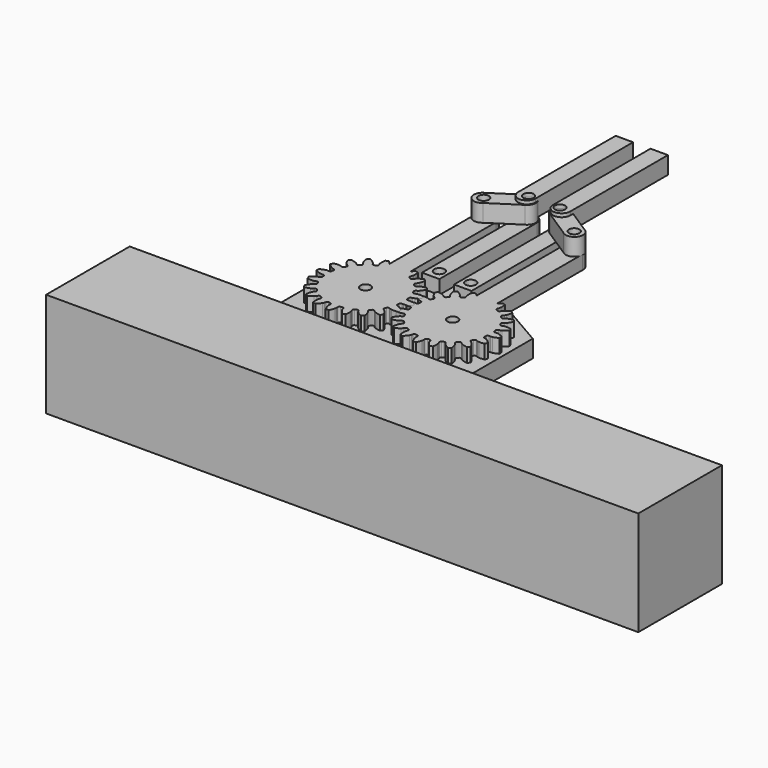
from build123d import *

# Parameters (mm, degrees)
BOX_W             = 170
BOX_H             = 30
BOX_DEPTH         = 30
CYLINDER002_R     = 1.5
CYLINDER002_DEPTH = 15
CYLINDER_R        = 1.5
CYLINDER_DEPTH    = 15
EXTRUDE002_DEPTH  = 5
CYLINDER004_R     = 1.5
CYLINDER004_DEPTH = 20
CYLINDER003_R     = 1.5
CYLINDER003_DEPTH = 15
EXTRUDE005_DEPTH  = 5
EXTRUDE007_DEPTH  = 5
EXTRUDE006_DEPTH  = 5
EXTRUDE004_DEPTH  = 4
EXTRUDE003_DEPTH  = 4
CYLINDER001_R     = 1.5
CYLINDER001_DEPTH = 15
EXTRUDE_DEPTH     = 4


with BuildPart() as cube:
    # Box → Box (new body)
    with BuildSketch(Plane(origin=(-41, -69, 0), x_dir=(1, 0, 0), z_dir=(0, 0, 1))):
        with Locations((85, 15)):
            Rectangle(BOX_W, BOX_H)
    extrude(amount=BOX_DEPTH)


with BuildPart() as cylinder002:
    # Cylinder002 → Cylinder002 (new body)
    with BuildSketch(Plane(origin=(4.5, 26.5, -2), x_dir=(1, 0, 0), z_dir=(0, 0, 1))):
        Circle(CYLINDER002_R)
    extrude(amount=CYLINDER002_DEPTH)


with BuildPart() as part_mirroring007:
    # Part__Mirroring007: instance of Cylinder002
    add(cylinder002.part.mirror(Plane(origin=(0, 0, 0), x_dir=(0, -1, 0), z_dir=(1, 0, 0))))


with BuildPart() as hueco_tornillo:
    # Cylinder → Cylinder (new body)
    with BuildSketch(Plane(origin=(12.5, 10, -1), x_dir=(1, 0, 0), z_dir=(0, 0, 1))):
        Circle(CYLINDER_R)
    extrude(amount=CYLINDER_DEPTH)


with BuildPart() as part_mirroring005:
    # Part__Mirroring005: instance of Hueco tornillo
    add(hueco_tornillo.part.mirror(Plane(origin=(0, 0, 0), x_dir=(0, -1, 0), z_dir=(1, 0, 0))))


with BuildPart() as obj1:
    # Sketch001 → Extrude002 (new body)
    with BuildSketch(Plane.XY):
        Polygon((-27.5, -20), (-27.5, 20), (-10, 30.10363), (10, 30.10363), (27.5, 20), (27.5, -20), align=None)
    extrude(amount=EXTRUDE002_DEPTH)

    # Cut001: cut Hueco tornillo
    add(hueco_tornillo.part, mode=Mode.SUBTRACT)

    # Cut002: cut Part__Mirroring005
    add(part_mirroring005.part, mode=Mode.SUBTRACT)

    # Cut005: cut Cylinder002
    add(cylinder002.part, mode=Mode.SUBTRACT)

    # Cut007: cut Part__Mirroring007
    add(part_mirroring007.part, mode=Mode.SUBTRACT)


with BuildPart() as tornillo001:
    # Cylinder004 → Cylinder004 (new body)
    with BuildSketch(Plane(origin=(4.5, 58.5, 2), x_dir=(1, 0, 0), z_dir=(0, 0, 1))):
        Circle(CYLINDER004_R)
    extrude(amount=CYLINDER004_DEPTH)


with BuildPart() as tornillo:
    # Cylinder003 → Cylinder003 (new body)
    with BuildSketch(Plane(origin=(13, 53, 4), x_dir=(1, 0, 0), z_dir=(0, 0, 1))):
        Circle(CYLINDER003_R)
    extrude(amount=CYLINDER003_DEPTH)


with BuildPart() as obj2:
    # Sketch003 → Extrude005 (new body)
    with BuildSketch(Plane.XY.offset(12)):
        with BuildLine():
            Line((6.265841, 59.984875), (14.149073, 54.864849))
            ThreePointArc((11.315443, 50.797342), (15.05131, 51.215528), (14.149073, 54.864849))
            Line((3.432211, 55.917368), (11.315443, 50.797342))
            ThreePointArc((6.265841, 59.984875), (2.529975, 59.566689), (3.432211, 55.917368))
        make_face()
    extrude(amount=EXTRUDE005_DEPTH)


with BuildPart() as obj2_1:
    # Extrude005 placement: moved
    add(obj2.part.moved(Location((0.18891, 0.183964, -3))))


with BuildPart() as obj3:
    # Cut010 base: copy of obj2
    add(obj2_1.part)

    # Cut010: cut Tornillo
    add(tornillo.part, mode=Mode.SUBTRACT)

    # Cut013: cut Tornillo001
    add(tornillo001.part, mode=Mode.SUBTRACT)


with BuildPart() as obj4:
    # Sketch005 → Extrude007 (new body)
    with BuildSketch(Plane.XY.offset(12)):
        with BuildLine():
            Line((6.265841, 59.984875), (14.149073, 54.864849))
            ThreePointArc((11.315443, 50.797342), (15.05131, 51.215528), (14.149073, 54.864849))
            Line((3.432211, 55.917368), (11.315443, 50.797342))
            ThreePointArc((6.265841, 59.984875), (2.529975, 59.566689), (3.432211, 55.917368))
        make_face()
    extrude(amount=EXTRUDE007_DEPTH)


with BuildPart() as obj4_1:
    # Extrude007 placement: moved
    add(obj4.part.moved(Location((0.18891, 0.183964, -3))))


with BuildPart() as obj5:
    # Sketch004 → Extrude006 (new body)
    with BuildSketch(Plane.XY):
        with BuildLine():
            Line((-2.5, 17.5), (2.5, 17.5))
            Line((2.5, 17.5), (2.5, -17.5))
            ThreePointArc((-2.5, -17.5), (0, -20), (2.5, -17.5))
            Line((-2.5, -17.5), (-2.5, 17.5))
        make_face()
    extrude(amount=EXTRUDE006_DEPTH)


with BuildPart() as obj5_1:
    # Extrude006 placement: moved
    add(obj5.part.moved(Location((5, 76, 10))))

    # Cut: cut obj4
    add(obj4_1.part, mode=Mode.SUBTRACT)


with BuildPart() as obj6:
    # Cut014 base: copy of obj5
    add(obj5_1.part)

    # Cut014: cut Tornillo001
    add(tornillo001.part, mode=Mode.SUBTRACT)


with BuildPart() as obj7:
    # Sketch002 → Extrude004 (new body)
    with BuildSketch(Plane.XY):
        with BuildLine():
            Line((50.607732, 0), (50.607732, 35))
            ThreePointArc((55.607732, 35), (53.107732, 37.50001), (50.607732, 35))
            Line((55.607732, 0), (55.607732, 35))
            Line((50.607732, 0), (55.607732, 0))
        make_face()
    extrude(amount=EXTRUDE004_DEPTH)


with BuildPart() as obj7_1:
    # Extrude004 placement: moved
    add(obj7.part.moved(Location((-48.5, 23.5, 5))))


with BuildPart() as obj8:
    # Cut006 base: copy of obj7
    add(obj7_1.part)

    # Cut006: cut Cylinder002
    add(cylinder002.part, mode=Mode.SUBTRACT)

    # Cut015: cut Tornillo001
    add(tornillo001.part, mode=Mode.SUBTRACT)


with BuildPart() as part_mirroring009:
    # Part__Mirroring009: instance of Tornillo001
    add(tornillo001.part.mirror(Plane(origin=(0, 0, 0), x_dir=(0, -1, 0), z_dir=(1, 0, 0))))


with BuildPart() as obj9:
    # Part__Mirroring002: instance of obj7
    add(obj7_1.part.mirror(Plane(origin=(0, 0, 0), x_dir=(0, -1, 0), z_dir=(1, 0, 0))))

    # Cut008: cut Part__Mirroring007
    add(part_mirroring007.part, mode=Mode.SUBTRACT)

    # Cut016: cut Part__Mirroring009
    add(part_mirroring009.part, mode=Mode.SUBTRACT)


with BuildPart() as part_mirroring008:
    # Part__Mirroring008: instance of Tornillo
    add(tornillo.part.mirror(Plane(origin=(0, 0, 0), x_dir=(0, -1, 0), z_dir=(1, 0, 0))))


with BuildPart() as obj10:
    # Part__Mirroring003: instance of obj2
    add(obj2_1.part.mirror(Plane(origin=(0, 0, 0), x_dir=(0, -1, 0), z_dir=(1, 0, 0))))

    # Cut012: cut Part__Mirroring008
    add(part_mirroring008.part, mode=Mode.SUBTRACT)

    # Cut017: cut Part__Mirroring009
    add(part_mirroring009.part, mode=Mode.SUBTRACT)


with BuildPart() as obj11:
    # Part__Mirroring004: instance of obj5
    add(obj5_1.part.mirror(Plane(origin=(0, 0, 0), x_dir=(0, -1, 0), z_dir=(1, 0, 0))))

    # Cut018: cut Part__Mirroring009
    add(part_mirroring009.part, mode=Mode.SUBTRACT)


with BuildPart() as obj12:
    # Sketch → Extrude003 (new body)
    with BuildSketch(Plane.XY):
        with BuildLine():
            Line((71.932891, 0), (71.932891, 40))
            ThreePointArc((77.932891, 40), (74.932891, 43), (71.932891, 40))
            Line((77.932891, 0), (77.932891, 40))
            Line((71.932891, 0), (77.932891, 0))
        make_face()
    extrude(amount=EXTRUDE003_DEPTH)


with BuildPart() as obj12_1:
    # Extrude003 placement: moved
    add(obj12.part.moved(Location((-62.5, 13, 5))))


with BuildPart() as fal_der_tornillo:
    # Cut009 base: copy of obj12
    add(obj12_1.part)

    # Cut009: cut Tornillo
    add(tornillo.part, mode=Mode.SUBTRACT)


with BuildPart() as cylinder:
    # Cylinder001 → Cylinder001 (new body)
    with BuildSketch(Plane(origin=(12.5, 10, -1), x_dir=(1, 0, 0), z_dir=(0, 0, 1))):
        Circle(CYLINDER001_R)
    extrude(amount=CYLINDER001_DEPTH)


with BuildPart() as extrude_body:
    # InvoluteGear → Extrude (new body)
    with BuildSketch(Plane.XY):
        with BuildLine():
            Line((11.346894, -1.063398), (11.717318, -1.097171))
            add(Edge.make_bspline(
                [(11.717318, -1.097171), (11.776361, -1.099058), (11.954079, -1.097525), (12.250595, -1.033325)],
                knots=[0, 0, 0, 0, 1, 1, 1, 1], degree=3))
            add(Edge.make_bspline(
                [(12.250595, -1.033325), (12.605293, -0.955347), (13.115728, -0.788419), (13.744527, -0.433709)],
                knots=[0, 0, 0, 0, 1, 1, 1, 1], degree=3))
            ThreePointArc((13.744527, -0.433709), (13.751369, 0), (13.744527, 0.433709))
            add(Edge.make_bspline(
                [(13.744527, 0.433709), (13.115728, 0.788419), (12.605293, 0.955347), (12.250595, 1.033325)],
                knots=[0, 0, 0, 0, 1, 1, 1, 1], degree=3))
            add(Edge.make_bspline(
                [(12.250595, 1.033325), (11.954079, 1.097525), (11.776361, 1.099058), (11.717318, 1.097171)],
                knots=[0, 0, 0, 0, 1, 1, 1, 1], degree=3))
            Line((11.717318, 1.097171), (11.346894, 1.063398))
            ThreePointArc((11.346894, 1.063398), (11.011703, 1.162977), (10.838693, 1.466846))
            ThreePointArc((10.838693, 1.466846), (10.802841, 1.711002), (10.76149, 1.954287))
            ThreePointArc((10.76149, 1.954287), (10.832131, 2.296747), (11.120145, 2.495031))
            Line((11.120145, 2.495031), (11.482876, 2.577378))
            add(Edge.make_bspline(
                [(11.482876, 2.577378), (11.539612, 2.593829), (11.708158, 2.650205), (11.970323, 2.802892)],
                knots=[0, 0, 0, 0, 1, 1, 1, 1], degree=3))
            add(Edge.make_bspline(
                [(11.970323, 2.802892), (12.283565, 2.986661), (12.717433, 3.303152), (13.205845, 3.83481)],
                knots=[0, 0, 0, 0, 1, 1, 1, 1], degree=3))
            ThreePointArc((13.205845, 3.83481), (13.078329, 4.249407), (12.937798, 4.659774))
            add(Edge.make_bspline(
                [(12.937798, 4.659774), (12.230164, 4.802814), (11.693128, 4.803839), (11.331693, 4.768393)],
                knots=[0, 0, 0, 0, 1, 1, 1, 1], degree=3))
            add(Edge.make_bspline(
                [(11.331693, 4.768393), (11.029851, 4.737822), (10.860357, 4.684362), (10.804787, 4.664322)],
                knots=[0, 0, 0, 0, 1, 1, 1, 1], degree=3))
            Line((10.804787, 4.664322), (10.462929, 4.517735))
            ThreePointArc((10.462929, 4.517735), (10.113372, 4.50886), (9.854929, 4.744394))
            ThreePointArc((9.854929, 4.744394), (9.745384, 4.965521), (9.630878, 5.18412))
            ThreePointArc((9.630878, 5.18412), (9.592235, 5.531648), (9.80488, 5.809229))
            Line((9.80488, 5.809229), (10.124411, 5.999636))
            add(Edge.make_bspline(
                [(10.124411, 5.999636), (10.173286, 6.032814), (10.316162, 6.138515), (10.518313, 6.364742)],
                knots=[0, 0, 0, 0, 1, 1, 1, 1], degree=3))
            add(Edge.make_bspline(
                [(10.518313, 6.364742), (10.759435, 6.636313), (11.074268, 7.071387), (11.374484, 7.727952)],
                knots=[0, 0, 0, 0, 1, 1, 1, 1], degree=3))
            ThreePointArc((11.374484, 7.727952), (11.125091, 8.082852), (10.864628, 8.429708))
            add(Edge.make_bspline(
                [(10.864628, 8.429708), (10.147426, 8.347076), (9.636357, 8.182097), (9.303566, 8.036697)],
                knots=[0, 0, 0, 0, 1, 1, 1, 1], degree=3))
            add(Edge.make_bspline(
                [(9.303566, 8.036697), (9.025944, 7.914348), (8.881266, 7.811128), (8.834608, 7.774897)],
                knots=[0, 0, 0, 0, 1, 1, 1, 1], degree=3))
            Line((8.834608, 7.774897), (8.55478, 7.529844))
            ThreePointArc((8.55478, 7.529844), (8.225074, 7.413384), (7.906496, 7.557528))
            ThreePointArc((7.906496, 7.557528), (7.73398, 7.73398), (7.557528, 7.906496))
            ThreePointArc((7.557528, 7.906496), (7.413384, 8.225074), (7.529844, 8.55478))
            Line((7.529844, 8.55478), (7.774897, 8.834608))
            add(Edge.make_bspline(
                [(7.774897, 8.834608), (7.811128, 8.881266), (7.914348, 9.025944), (8.036697, 9.303566)],
                knots=[0, 0, 0, 0, 1, 1, 1, 1], degree=3))
            add(Edge.make_bspline(
                [(8.036697, 9.303566), (8.182097, 9.636357), (8.347076, 10.147426), (8.429708, 10.864628)],
                knots=[0, 0, 0, 0, 1, 1, 1, 1], degree=3))
            ThreePointArc((8.429708, 10.864628), (8.082852, 11.125091), (7.727952, 11.374484))
            add(Edge.make_bspline(
                [(7.727952, 11.374484), (7.071387, 11.074268), (6.636313, 10.759435), (6.364742, 10.518313)],
                knots=[0, 0, 0, 0, 1, 1, 1, 1], degree=3))
            add(Edge.make_bspline(
                [(6.364742, 10.518313), (6.138515, 10.316162), (6.032814, 10.173286), (5.999636, 10.124411)],
                knots=[0, 0, 0, 0, 1, 1, 1, 1], degree=3))
            Line((5.999636, 10.124411), (5.809229, 9.80488))
            ThreePointArc((5.809229, 9.80488), (5.531648, 9.592235), (5.18412, 9.630878))
            ThreePointArc((5.18412, 9.630878), (4.965521, 9.745384), (4.744394, 9.854929))
            ThreePointArc((4.744394, 9.854929), (4.50886, 10.113372), (4.517735, 10.462929))
            Line((4.517735, 10.462929), (4.664322, 10.804787))
            add(Edge.make_bspline(
                [(4.664322, 10.804787), (4.684362, 10.860357), (4.737822, 11.029851), (4.768393, 11.331693)],
                knots=[0, 0, 0, 0, 1, 1, 1, 1], degree=3))
            add(Edge.make_bspline(
                [(4.768393, 11.331693), (4.803839, 11.693128), (4.802814, 12.230164), (4.659774, 12.937798)],
                knots=[0, 0, 0, 0, 1, 1, 1, 1], degree=3))
            ThreePointArc((4.659774, 12.937798), (4.249407, 13.078329), (3.83481, 13.205845))
            add(Edge.make_bspline(
                [(3.83481, 13.205845), (3.303152, 12.717433), (2.986661, 12.283565), (2.802892, 11.970323)],
                knots=[0, 0, 0, 0, 1, 1, 1, 1], degree=3))
            add(Edge.make_bspline(
                [(2.802892, 11.970323), (2.650205, 11.708158), (2.593829, 11.539612), (2.577378, 11.482876)],
                knots=[0, 0, 0, 0, 1, 1, 1, 1], degree=3))
            Line((2.577378, 11.482876), (2.495031, 11.120145))
            ThreePointArc((2.495031, 11.120145), (2.296747, 10.832131), (1.954287, 10.76149))
            ThreePointArc((1.954287, 10.76149), (1.711002, 10.802841), (1.466846, 10.838693))
            ThreePointArc((1.466846, 10.838693), (1.162977, 11.011703), (1.063398, 11.346894))
            Line((1.063398, 11.346894), (1.097171, 11.717318))
            add(Edge.make_bspline(
                [(1.097171, 11.717318), (1.099058, 11.776361), (1.097525, 11.954079), (1.033325, 12.250595)],
                knots=[0, 0, 0, 0, 1, 1, 1, 1], degree=3))
            add(Edge.make_bspline(
                [(1.033325, 12.250595), (0.955347, 12.605293), (0.788419, 13.115728), (0.433709, 13.744527)],
                knots=[0, 0, 0, 0, 1, 1, 1, 1], degree=3))
            ThreePointArc((0.433709, 13.744527), (0, 13.751369), (-0.433709, 13.744527))
            add(Edge.make_bspline(
                [(-0.433709, 13.744527), (-0.788419, 13.115728), (-0.955347, 12.605293), (-1.033325, 12.250595)],
                knots=[0, 0, 0, 0, 1, 1, 1, 1], degree=3))
            add(Edge.make_bspline(
                [(-1.033325, 12.250595), (-1.097525, 11.954079), (-1.099058, 11.776361), (-1.097171, 11.717318)],
                knots=[0, 0, 0, 0, 1, 1, 1, 1], degree=3))
            Line((-1.097171, 11.717318), (-1.063398, 11.346894))
            ThreePointArc((-1.063398, 11.346894), (-1.162977, 11.011703), (-1.466846, 10.838693))
            ThreePointArc((-1.466846, 10.838693), (-1.711002, 10.802841), (-1.954287, 10.76149))
            ThreePointArc((-1.954287, 10.76149), (-2.296747, 10.832131), (-2.495031, 11.120145))
            Line((-2.495031, 11.120145), (-2.577378, 11.482876))
            add(Edge.make_bspline(
                [(-2.577378, 11.482876), (-2.593829, 11.539612), (-2.650205, 11.708158), (-2.802892, 11.970323)],
                knots=[0, 0, 0, 0, 1, 1, 1, 1], degree=3))
            add(Edge.make_bspline(
                [(-2.802892, 11.970323), (-2.986661, 12.283565), (-3.303152, 12.717433), (-3.83481, 13.205845)],
                knots=[0, 0, 0, 0, 1, 1, 1, 1], degree=3))
            ThreePointArc((-3.83481, 13.205845), (-4.249407, 13.078329), (-4.659774, 12.937798))
            add(Edge.make_bspline(
                [(-4.659774, 12.937798), (-4.802814, 12.230164), (-4.803839, 11.693128), (-4.768393, 11.331693)],
                knots=[0, 0, 0, 0, 1, 1, 1, 1], degree=3))
            add(Edge.make_bspline(
                [(-4.768393, 11.331693), (-4.737822, 11.029851), (-4.684362, 10.860357), (-4.664322, 10.804787)],
                knots=[0, 0, 0, 0, 1, 1, 1, 1], degree=3))
            Line((-4.664322, 10.804787), (-4.517735, 10.462929))
            ThreePointArc((-4.517735, 10.462929), (-4.50886, 10.113372), (-4.744394, 9.854929))
            ThreePointArc((-4.744394, 9.854929), (-4.965521, 9.745384), (-5.18412, 9.630878))
            ThreePointArc((-5.18412, 9.630878), (-5.531648, 9.592235), (-5.809229, 9.80488))
            Line((-5.809229, 9.80488), (-5.999636, 10.124411))
            add(Edge.make_bspline(
                [(-5.999636, 10.124411), (-6.032814, 10.173286), (-6.138515, 10.316162), (-6.364742, 10.518313)],
                knots=[0, 0, 0, 0, 1, 1, 1, 1], degree=3))
            add(Edge.make_bspline(
                [(-6.364742, 10.518313), (-6.636313, 10.759435), (-7.071387, 11.074268), (-7.727952, 11.374484)],
                knots=[0, 0, 0, 0, 1, 1, 1, 1], degree=3))
            ThreePointArc((-7.727952, 11.374484), (-8.082852, 11.125091), (-8.429708, 10.864628))
            add(Edge.make_bspline(
                [(-8.429708, 10.864628), (-8.347076, 10.147426), (-8.182097, 9.636357), (-8.036697, 9.303566)],
                knots=[0, 0, 0, 0, 1, 1, 1, 1], degree=3))
            add(Edge.make_bspline(
                [(-8.036697, 9.303566), (-7.914348, 9.025944), (-7.811128, 8.881266), (-7.774897, 8.834608)],
                knots=[0, 0, 0, 0, 1, 1, 1, 1], degree=3))
            Line((-7.774897, 8.834608), (-7.529844, 8.55478))
            ThreePointArc((-7.529844, 8.55478), (-7.413384, 8.225074), (-7.557528, 7.906496))
            ThreePointArc((-7.557528, 7.906496), (-7.73398, 7.73398), (-7.906496, 7.557528))
            ThreePointArc((-7.906496, 7.557528), (-8.225074, 7.413384), (-8.55478, 7.529844))
            Line((-8.55478, 7.529844), (-8.834608, 7.774897))
            add(Edge.make_bspline(
                [(-8.834608, 7.774897), (-8.881266, 7.811128), (-9.025944, 7.914348), (-9.303566, 8.036697)],
                knots=[0, 0, 0, 0, 1, 1, 1, 1], degree=3))
            add(Edge.make_bspline(
                [(-9.303566, 8.036697), (-9.636357, 8.182097), (-10.147426, 8.347076), (-10.864628, 8.429708)],
                knots=[0, 0, 0, 0, 1, 1, 1, 1], degree=3))
            ThreePointArc((-10.864628, 8.429708), (-11.125091, 8.082852), (-11.374484, 7.727952))
            add(Edge.make_bspline(
                [(-11.374484, 7.727952), (-11.074268, 7.071387), (-10.759435, 6.636313), (-10.518313, 6.364742)],
                knots=[0, 0, 0, 0, 1, 1, 1, 1], degree=3))
            add(Edge.make_bspline(
                [(-10.518313, 6.364742), (-10.316162, 6.138515), (-10.173286, 6.032814), (-10.124411, 5.999636)],
                knots=[0, 0, 0, 0, 1, 1, 1, 1], degree=3))
            Line((-10.124411, 5.999636), (-9.80488, 5.809229))
            ThreePointArc((-9.80488, 5.809229), (-9.592235, 5.531648), (-9.630878, 5.18412))
            ThreePointArc((-9.630878, 5.18412), (-9.745384, 4.965521), (-9.854929, 4.744394))
            ThreePointArc((-9.854929, 4.744394), (-10.113372, 4.50886), (-10.462929, 4.517735))
            Line((-10.462929, 4.517735), (-10.804787, 4.664322))
            add(Edge.make_bspline(
                [(-10.804787, 4.664322), (-10.860357, 4.684362), (-11.029851, 4.737822), (-11.331693, 4.768393)],
                knots=[0, 0, 0, 0, 1, 1, 1, 1], degree=3))
            add(Edge.make_bspline(
                [(-11.331693, 4.768393), (-11.693128, 4.803839), (-12.230164, 4.802814), (-12.937798, 4.659774)],
                knots=[0, 0, 0, 0, 1, 1, 1, 1], degree=3))
            ThreePointArc((-12.937798, 4.659774), (-13.078329, 4.249407), (-13.205845, 3.83481))
            add(Edge.make_bspline(
                [(-13.205845, 3.83481), (-12.717433, 3.303152), (-12.283565, 2.986661), (-11.970323, 2.802892)],
                knots=[0, 0, 0, 0, 1, 1, 1, 1], degree=3))
            add(Edge.make_bspline(
                [(-11.970323, 2.802892), (-11.708158, 2.650205), (-11.539612, 2.593829), (-11.482876, 2.577378)],
                knots=[0, 0, 0, 0, 1, 1, 1, 1], degree=3))
            Line((-11.482876, 2.577378), (-11.120145, 2.495031))
            ThreePointArc((-11.120145, 2.495031), (-10.832131, 2.296747), (-10.76149, 1.954287))
            ThreePointArc((-10.76149, 1.954287), (-10.802841, 1.711002), (-10.838693, 1.466846))
            ThreePointArc((-10.838693, 1.466846), (-11.011703, 1.162977), (-11.346894, 1.063398))
            Line((-11.346894, 1.063398), (-11.717318, 1.097171))
            add(Edge.make_bspline(
                [(-11.717318, 1.097171), (-11.776361, 1.099058), (-11.954079, 1.097525), (-12.250595, 1.033325)],
                knots=[0, 0, 0, 0, 1, 1, 1, 1], degree=3))
            add(Edge.make_bspline(
                [(-12.250595, 1.033325), (-12.605293, 0.955347), (-13.115728, 0.788419), (-13.744527, 0.433709)],
                knots=[0, 0, 0, 0, 1, 1, 1, 1], degree=3))
            ThreePointArc((-13.744527, 0.433709), (-13.751369, 0), (-13.744527, -0.433709))
            add(Edge.make_bspline(
                [(-13.744527, -0.433709), (-13.115728, -0.788419), (-12.605293, -0.955347), (-12.250595, -1.033325)],
                knots=[0, 0, 0, 0, 1, 1, 1, 1], degree=3))
            add(Edge.make_bspline(
                [(-12.250595, -1.033325), (-11.954079, -1.097525), (-11.776361, -1.099058), (-11.717318, -1.097171)],
                knots=[0, 0, 0, 0, 1, 1, 1, 1], degree=3))
            Line((-11.717318, -1.097171), (-11.346894, -1.063398))
            ThreePointArc((-11.346894, -1.063398), (-11.011703, -1.162977), (-10.838693, -1.466846))
            ThreePointArc((-10.838693, -1.466846), (-10.802841, -1.711002), (-10.76149, -1.954287))
            ThreePointArc((-10.76149, -1.954287), (-10.832131, -2.296747), (-11.120145, -2.495031))
            Line((-11.120145, -2.495031), (-11.482876, -2.577378))
            add(Edge.make_bspline(
                [(-11.482876, -2.577378), (-11.539612, -2.593829), (-11.708158, -2.650205), (-11.970323, -2.802892)],
                knots=[0, 0, 0, 0, 1, 1, 1, 1], degree=3))
            add(Edge.make_bspline(
                [(-11.970323, -2.802892), (-12.283565, -2.986661), (-12.717433, -3.303152), (-13.205845, -3.83481)],
                knots=[0, 0, 0, 0, 1, 1, 1, 1], degree=3))
            ThreePointArc((-13.205845, -3.83481), (-13.078329, -4.249407), (-12.937798, -4.659774))
            add(Edge.make_bspline(
                [(-12.937798, -4.659774), (-12.230164, -4.802814), (-11.693128, -4.803839), (-11.331693, -4.768393)],
                knots=[0, 0, 0, 0, 1, 1, 1, 1], degree=3))
            add(Edge.make_bspline(
                [(-11.331693, -4.768393), (-11.029851, -4.737822), (-10.860357, -4.684362), (-10.804787, -4.664322)],
                knots=[0, 0, 0, 0, 1, 1, 1, 1], degree=3))
            Line((-10.804787, -4.664322), (-10.462929, -4.517735))
            ThreePointArc((-10.462929, -4.517735), (-10.113372, -4.50886), (-9.854929, -4.744394))
            ThreePointArc((-9.854929, -4.744394), (-9.745384, -4.965521), (-9.630878, -5.18412))
            ThreePointArc((-9.630878, -5.18412), (-9.592235, -5.531648), (-9.80488, -5.809229))
            Line((-9.80488, -5.809229), (-10.124411, -5.999636))
            add(Edge.make_bspline(
                [(-10.124411, -5.999636), (-10.173286, -6.032814), (-10.316162, -6.138515), (-10.518313, -6.364742)],
                knots=[0, 0, 0, 0, 1, 1, 1, 1], degree=3))
            add(Edge.make_bspline(
                [(-10.518313, -6.364742), (-10.759435, -6.636313), (-11.074268, -7.071387), (-11.374484, -7.727952)],
                knots=[0, 0, 0, 0, 1, 1, 1, 1], degree=3))
            ThreePointArc((-11.374484, -7.727952), (-11.125091, -8.082852), (-10.864628, -8.429708))
            add(Edge.make_bspline(
                [(-10.864628, -8.429708), (-10.147426, -8.347076), (-9.636357, -8.182097), (-9.303566, -8.036697)],
                knots=[0, 0, 0, 0, 1, 1, 1, 1], degree=3))
            add(Edge.make_bspline(
                [(-9.303566, -8.036697), (-9.025944, -7.914348), (-8.881266, -7.811128), (-8.834608, -7.774897)],
                knots=[0, 0, 0, 0, 1, 1, 1, 1], degree=3))
            Line((-8.834608, -7.774897), (-8.55478, -7.529844))
            ThreePointArc((-8.55478, -7.529844), (-8.225074, -7.413384), (-7.906496, -7.557528))
            ThreePointArc((-7.906496, -7.557528), (-7.73398, -7.73398), (-7.557528, -7.906496))
            ThreePointArc((-7.557528, -7.906496), (-7.413384, -8.225074), (-7.529844, -8.55478))
            Line((-7.529844, -8.55478), (-7.774897, -8.834608))
            add(Edge.make_bspline(
                [(-7.774897, -8.834608), (-7.811128, -8.881266), (-7.914348, -9.025944), (-8.036697, -9.303566)],
                knots=[0, 0, 0, 0, 1, 1, 1, 1], degree=3))
            add(Edge.make_bspline(
                [(-8.036697, -9.303566), (-8.182097, -9.636357), (-8.347076, -10.147426), (-8.429708, -10.864628)],
                knots=[0, 0, 0, 0, 1, 1, 1, 1], degree=3))
            ThreePointArc((-8.429708, -10.864628), (-8.082852, -11.125091), (-7.727952, -11.374484))
            add(Edge.make_bspline(
                [(-7.727952, -11.374484), (-7.071387, -11.074268), (-6.636313, -10.759435), (-6.364742, -10.518313)],
                knots=[0, 0, 0, 0, 1, 1, 1, 1], degree=3))
            add(Edge.make_bspline(
                [(-6.364742, -10.518313), (-6.138515, -10.316162), (-6.032814, -10.173286), (-5.999636, -10.124411)],
                knots=[0, 0, 0, 0, 1, 1, 1, 1], degree=3))
            Line((-5.999636, -10.124411), (-5.809229, -9.80488))
            ThreePointArc((-5.809229, -9.80488), (-5.531648, -9.592235), (-5.18412, -9.630878))
            ThreePointArc((-5.18412, -9.630878), (-4.965521, -9.745384), (-4.744394, -9.854929))
            ThreePointArc((-4.744394, -9.854929), (-4.50886, -10.113372), (-4.517735, -10.462929))
            Line((-4.517735, -10.462929), (-4.664322, -10.804787))
            add(Edge.make_bspline(
                [(-4.664322, -10.804787), (-4.684362, -10.860357), (-4.737822, -11.029851), (-4.768393, -11.331693)],
                knots=[0, 0, 0, 0, 1, 1, 1, 1], degree=3))
            add(Edge.make_bspline(
                [(-4.768393, -11.331693), (-4.803839, -11.693128), (-4.802814, -12.230164), (-4.659774, -12.937798)],
                knots=[0, 0, 0, 0, 1, 1, 1, 1], degree=3))
            ThreePointArc((-4.659774, -12.937798), (-4.249407, -13.078329), (-3.83481, -13.205845))
            add(Edge.make_bspline(
                [(-3.83481, -13.205845), (-3.303152, -12.717433), (-2.986661, -12.283565), (-2.802892, -11.970323)],
                knots=[0, 0, 0, 0, 1, 1, 1, 1], degree=3))
            add(Edge.make_bspline(
                [(-2.802892, -11.970323), (-2.650205, -11.708158), (-2.593829, -11.539612), (-2.577378, -11.482876)],
                knots=[0, 0, 0, 0, 1, 1, 1, 1], degree=3))
            Line((-2.577378, -11.482876), (-2.495031, -11.120145))
            ThreePointArc((-2.495031, -11.120145), (-2.296747, -10.832131), (-1.954287, -10.76149))
            ThreePointArc((-1.954287, -10.76149), (-1.711002, -10.802841), (-1.466846, -10.838693))
            ThreePointArc((-1.466846, -10.838693), (-1.162977, -11.011703), (-1.063398, -11.346894))
            Line((-1.063398, -11.346894), (-1.097171, -11.717318))
            add(Edge.make_bspline(
                [(-1.097171, -11.717318), (-1.099058, -11.776361), (-1.097525, -11.954079), (-1.033325, -12.250595)],
                knots=[0, 0, 0, 0, 1, 1, 1, 1], degree=3))
            add(Edge.make_bspline(
                [(-1.033325, -12.250595), (-0.955347, -12.605293), (-0.788419, -13.115728), (-0.433709, -13.744527)],
                knots=[0, 0, 0, 0, 1, 1, 1, 1], degree=3))
            ThreePointArc((-0.433709, -13.744527), (0, -13.751369), (0.433709, -13.744527))
            add(Edge.make_bspline(
                [(0.433709, -13.744527), (0.788419, -13.115728), (0.955347, -12.605293), (1.033325, -12.250595)],
                knots=[0, 0, 0, 0, 1, 1, 1, 1], degree=3))
            add(Edge.make_bspline(
                [(1.033325, -12.250595), (1.097525, -11.954079), (1.099058, -11.776361), (1.097171, -11.717318)],
                knots=[0, 0, 0, 0, 1, 1, 1, 1], degree=3))
            Line((1.097171, -11.717318), (1.063398, -11.346894))
            ThreePointArc((1.063398, -11.346894), (1.162977, -11.011703), (1.466846, -10.838693))
            ThreePointArc((1.466846, -10.838693), (1.711002, -10.802841), (1.954287, -10.76149))
            ThreePointArc((1.954287, -10.76149), (2.296747, -10.832131), (2.495031, -11.120145))
            Line((2.495031, -11.120145), (2.577378, -11.482876))
            add(Edge.make_bspline(
                [(2.577378, -11.482876), (2.593829, -11.539612), (2.650205, -11.708158), (2.802892, -11.970323)],
                knots=[0, 0, 0, 0, 1, 1, 1, 1], degree=3))
            add(Edge.make_bspline(
                [(2.802892, -11.970323), (2.986661, -12.283565), (3.303152, -12.717433), (3.83481, -13.205845)],
                knots=[0, 0, 0, 0, 1, 1, 1, 1], degree=3))
            ThreePointArc((3.83481, -13.205845), (4.249407, -13.078329), (4.659774, -12.937798))
            add(Edge.make_bspline(
                [(4.659774, -12.937798), (4.802814, -12.230164), (4.803839, -11.693128), (4.768393, -11.331693)],
                knots=[0, 0, 0, 0, 1, 1, 1, 1], degree=3))
            add(Edge.make_bspline(
                [(4.768393, -11.331693), (4.737822, -11.029851), (4.684362, -10.860357), (4.664322, -10.804787)],
                knots=[0, 0, 0, 0, 1, 1, 1, 1], degree=3))
            Line((4.664322, -10.804787), (4.517735, -10.462929))
            ThreePointArc((4.517735, -10.462929), (4.50886, -10.113372), (4.744394, -9.854929))
            ThreePointArc((4.744394, -9.854929), (4.965521, -9.745384), (5.18412, -9.630878))
            ThreePointArc((5.18412, -9.630878), (5.531648, -9.592235), (5.809229, -9.80488))
            Line((5.809229, -9.80488), (5.999636, -10.124411))
            add(Edge.make_bspline(
                [(5.999636, -10.124411), (6.032814, -10.173286), (6.138515, -10.316162), (6.364742, -10.518313)],
                knots=[0, 0, 0, 0, 1, 1, 1, 1], degree=3))
            add(Edge.make_bspline(
                [(6.364742, -10.518313), (6.636313, -10.759435), (7.071387, -11.074268), (7.727952, -11.374484)],
                knots=[0, 0, 0, 0, 1, 1, 1, 1], degree=3))
            ThreePointArc((7.727952, -11.374484), (8.082852, -11.125091), (8.429708, -10.864628))
            add(Edge.make_bspline(
                [(8.429708, -10.864628), (8.347076, -10.147426), (8.182097, -9.636357), (8.036697, -9.303566)],
                knots=[0, 0, 0, 0, 1, 1, 1, 1], degree=3))
            add(Edge.make_bspline(
                [(8.036697, -9.303566), (7.914348, -9.025944), (7.811128, -8.881266), (7.774897, -8.834608)],
                knots=[0, 0, 0, 0, 1, 1, 1, 1], degree=3))
            Line((7.774897, -8.834608), (7.529844, -8.55478))
            ThreePointArc((7.529844, -8.55478), (7.413384, -8.225074), (7.557528, -7.906496))
            ThreePointArc((7.557528, -7.906496), (7.73398, -7.73398), (7.906496, -7.557528))
            ThreePointArc((7.906496, -7.557528), (8.225074, -7.413384), (8.55478, -7.529844))
            Line((8.55478, -7.529844), (8.834608, -7.774897))
            add(Edge.make_bspline(
                [(8.834608, -7.774897), (8.881266, -7.811128), (9.025944, -7.914348), (9.303566, -8.036697)],
                knots=[0, 0, 0, 0, 1, 1, 1, 1], degree=3))
            add(Edge.make_bspline(
                [(9.303566, -8.036697), (9.636357, -8.182097), (10.147426, -8.347076), (10.864628, -8.429708)],
                knots=[0, 0, 0, 0, 1, 1, 1, 1], degree=3))
            ThreePointArc((10.864628, -8.429708), (11.125091, -8.082852), (11.374484, -7.727952))
            add(Edge.make_bspline(
                [(11.374484, -7.727952), (11.074268, -7.071387), (10.759435, -6.636313), (10.518313, -6.364742)],
                knots=[0, 0, 0, 0, 1, 1, 1, 1], degree=3))
            add(Edge.make_bspline(
                [(10.518313, -6.364742), (10.316162, -6.138515), (10.173286, -6.032814), (10.124411, -5.999636)],
                knots=[0, 0, 0, 0, 1, 1, 1, 1], degree=3))
            Line((10.124411, -5.999636), (9.80488, -5.809229))
            ThreePointArc((9.80488, -5.809229), (9.592235, -5.531648), (9.630878, -5.18412))
            ThreePointArc((9.630878, -5.18412), (9.745384, -4.965521), (9.854929, -4.744394))
            ThreePointArc((9.854929, -4.744394), (10.113372, -4.50886), (10.462929, -4.517735))
            Line((10.462929, -4.517735), (10.804787, -4.664322))
            add(Edge.make_bspline(
                [(10.804787, -4.664322), (10.860357, -4.684362), (11.029851, -4.737822), (11.331693, -4.768393)],
                knots=[0, 0, 0, 0, 1, 1, 1, 1], degree=3))
            add(Edge.make_bspline(
                [(11.331693, -4.768393), (11.693128, -4.803839), (12.230164, -4.802814), (12.937798, -4.659774)],
                knots=[0, 0, 0, 0, 1, 1, 1, 1], degree=3))
            ThreePointArc((12.937798, -4.659774), (13.078329, -4.249407), (13.205845, -3.83481))
            add(Edge.make_bspline(
                [(13.205845, -3.83481), (12.717433, -3.303152), (12.283565, -2.986661), (11.970323, -2.802892)],
                knots=[0, 0, 0, 0, 1, 1, 1, 1], degree=3))
            add(Edge.make_bspline(
                [(11.970323, -2.802892), (11.708158, -2.650205), (11.539612, -2.593829), (11.482876, -2.577378)],
                knots=[0, 0, 0, 0, 1, 1, 1, 1], degree=3))
            Line((11.482876, -2.577378), (11.120145, -2.495031))
            ThreePointArc((11.120145, -2.495031), (10.832131, -2.296747), (10.76149, -1.954287))
            ThreePointArc((10.76149, -1.954287), (10.802841, -1.711002), (10.838693, -1.466846))
            ThreePointArc((10.838693, -1.466846), (11.011703, -1.162977), (11.346894, -1.063398))
        make_face()
    extrude(amount=EXTRUDE_DEPTH)


with BuildPart() as extrude_body_1:
    # Extrude placement: moved
    add(extrude_body.part.moved(Location((12.5, 10, 5))))


with BuildPart() as eng_fal_der:
    # Cut003 base: copy of Extrude body
    add(extrude_body_1.part)

    # Cut003: cut Cylinder
    add(cylinder.part, mode=Mode.SUBTRACT)

    # Fusion: union Fal der tornillo
    add(fal_der_tornillo.part)


with BuildPart() as part_mirroring006:
    # Part__Mirroring006: instance of Cylinder
    add(cylinder.part.mirror(Plane(origin=(0, 0, 0), x_dir=(0, -1, 0), z_dir=(1, 0, 0))))


with BuildPart() as obj13:
    # Part__Mirroring: instance of Extrude body
    add(extrude_body_1.part.mirror(Plane(origin=(0, 0, 0), x_dir=(0, -1, 0), z_dir=(1, 0, 0))))

    # Cut004: cut Part__Mirroring006
    add(part_mirroring006.part, mode=Mode.SUBTRACT)


with BuildPart() as obj14:
    # Part__Mirroring001: instance of obj12
    add(obj12_1.part.mirror(Plane(origin=(0, 0, 0), x_dir=(0, -1, 0), z_dir=(1, 0, 0))))

    # Cut011: cut Part__Mirroring008
    add(part_mirroring008.part, mode=Mode.SUBTRACT)

    # Fusion001: union obj13
    add(obj13.part)


solid = Compound([cube.part, obj1.part, obj3.part, obj6.part, obj8.part, obj9.part, obj10.part, obj11.part, eng_fal_der.part, obj14.part])
